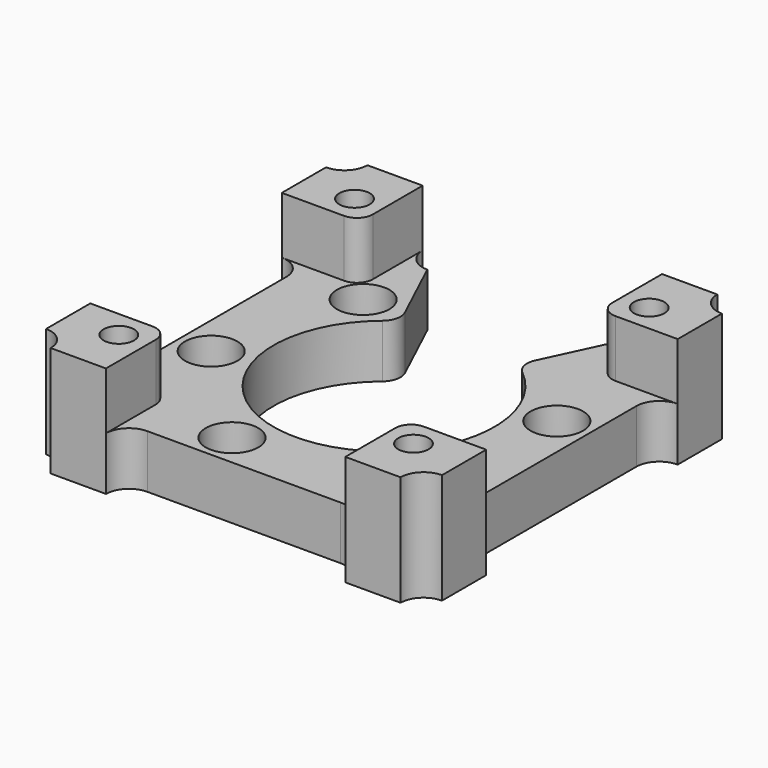
from build123d import *

# Parameters (mm, degrees)
SKETCH_R     = 1.5
SKETCH_R_2   = 1.65
PAD_DEPTH    = 5.8
SKETCH001_R  = 1.65
PAD001_DEPTH = 6.2
SKETCH002_R  = 2.85
POCKET_DEPTH = 3


with BuildPart() as part:
    # Sketch → Pad (new body)
    with BuildSketch(Plane.XY):
        with BuildLine():
            ThreePointArc((-21.5, 19), (-19.732233, 19.732233), (-19, 21.5))
            Line((-19, 21.5), (-13, 21.5))
            ThreePointArc((-13, 21.5), (-12.267767, 19.732233), (-10.500001, 19))
            Line((-10.500001, 19), (-7.065457, 11.675563))
            ThreePointArc((-7.608223, 9.279814), (-6.925691, 10.384542), (-7.065457, 11.675563))
            ThreePointArc((-7.608223, 9.279814), (0, -12), (7.608223, 9.279814))
            ThreePointArc((7.065457, 11.675563), (6.925691, 10.384541), (7.608223, 9.279814))
            Line((10.500001, 19), (7.065457, 11.675563))
            ThreePointArc((10.500001, 19), (12.267767, 19.732233), (13, 21.5))
            Line((19, 21.5), (13, 21.5))
            ThreePointArc((19, 21.5), (19.732233, 19.732233), (21.5, 19))
            Line((21.5, 19), (21.5, 13))
            ThreePointArc((21.5, 13), (19.732233, 12.267767), (19, 10.500001))
            Line((19, 10.500001), (19, -10.500001))
            ThreePointArc((19, -10.500001), (19.732233, -12.267767), (21.5, -13))
            Line((21.5, -19), (21.5, -13))
            ThreePointArc((21.5, -19), (19.732233, -19.732233), (19, -21.5))
            Line((19, -21.5), (13, -21.5))
            ThreePointArc((13, -21.5), (12.267767, -19.732233), (10.500001, -19))
            Line((10.500001, -19), (-10.500001, -19))
            ThreePointArc((-10.500001, -19), (-12.267767, -19.732233), (-13, -21.5))
            Line((-19, -21.5), (-13, -21.5))
            ThreePointArc((-19, -21.5), (-19.732233, -19.732233), (-21.5, -19))
            Line((-21.5, -19), (-21.5, -13))
            ThreePointArc((-21.5, -13), (-19.732233, -12.267767), (-19, -10.500001))
            Line((-19, 10.500001), (-19, -10.500001))
            ThreePointArc((-19, 10.500001), (-19.732233, 12.267767), (-21.5, 13))
            Line((-21.5, 19), (-21.5, 13))
        make_face()
        with Locations((-11.313708, 11.313708)):
            Circle(SKETCH_R, mode=Mode.SUBTRACT)
        with Locations((-15.454813, -4.141105)):
            Circle(SKETCH_R, mode=Mode.SUBTRACT)
        with Locations((-4.141105, -15.454813)):
            Circle(SKETCH_R, mode=Mode.SUBTRACT)
        with Locations((11.313708, -11.313708)):
            Circle(SKETCH_R, mode=Mode.SUBTRACT)
        with Locations((15.454813, 4.141105)):
            Circle(SKETCH_R, mode=Mode.SUBTRACT)
        with Locations((-16, 16)):
            Circle(SKETCH_R_2, mode=Mode.SUBTRACT)
        with Locations((16, 16)):
            Circle(SKETCH_R_2, mode=Mode.SUBTRACT)
        with Locations((16, -16)):
            Circle(SKETCH_R_2, mode=Mode.SUBTRACT)
        with Locations((-16, -16)):
            Circle(SKETCH_R_2, mode=Mode.SUBTRACT)
    extrude(amount=PAD_DEPTH)

    # Sketch001 (on Face39 of Pad) → Pad001 (join)
    with BuildSketch(Plane.XY.offset(5.8)):
        with BuildLine():
            ThreePointArc((-21.5, 19), (-19.732233, 19.732233), (-19, 21.5))
            Line((-19, 21.5), (-13, 21.5))
            Line((-13, 21.5), (-13, 14.726703))
            ThreePointArc((-14.726703, 13), (-13.50574, 13.50574), (-13, 14.726703))
            Line((-21.5, 13), (-14.726703, 13))
            Line((-21.5, 19), (-21.5, 13))
        make_face()
        with Locations((-16, 16)):
            Circle(SKETCH001_R, mode=Mode.SUBTRACT)
        with BuildLine():
            ThreePointArc((-19, -21.5), (-19.732233, -19.732233), (-21.5, -19))
            Line((-21.5, -19), (-21.5, -13))
            Line((-21.5, -13), (-14.726703, -13))
            ThreePointArc((-13, -14.726703), (-13.50574, -13.50574), (-14.726703, -13))
            Line((-13, -21.5), (-13, -14.726703))
            Line((-19, -21.5), (-13, -21.5))
        make_face()
        with Locations((-16, -16)):
            Circle(SKETCH001_R, mode=Mode.SUBTRACT)
        with BuildLine():
            ThreePointArc((21.5, -19), (19.732233, -19.732233), (19, -21.5))
            Line((19, -21.5), (13, -21.5))
            Line((13, -21.5), (13, -14.726703))
            ThreePointArc((14.726703, -13), (13.50574, -13.50574), (13, -14.726703))
            Line((21.5, -13), (14.726703, -13))
            Line((21.5, -19), (21.5, -13))
        make_face()
        with Locations((16, -16)):
            Circle(SKETCH001_R, mode=Mode.SUBTRACT)
        with BuildLine():
            ThreePointArc((19, 21.5), (19.732233, 19.732233), (21.5, 19))
            Line((21.5, 19), (21.5, 13))
            Line((21.5, 13), (14.726703, 13))
            ThreePointArc((13, 14.726703), (13.50574, 13.50574), (14.726703, 13))
            Line((13, 21.5), (13, 14.726703))
            Line((19, 21.5), (13, 21.5))
        make_face()
        with Locations((16, 16)):
            Circle(SKETCH001_R, mode=Mode.SUBTRACT)
    extrude(amount=PAD001_DEPTH)

    # Sketch002 (on Face4 of Pad001) → Pocket (cut)
    with BuildSketch(Plane.XY.offset(5.8)):
        with Locations((-11.313708, 11.313708)):
            Circle(SKETCH002_R)
        with Locations((15.454813, 4.141105)):
            Circle(SKETCH002_R)
        with Locations((11.313708, -11.313708)):
            Circle(SKETCH002_R)
        with Locations((-4.141105, -15.454813)):
            Circle(SKETCH002_R)
        with Locations((-15.454813, -4.141105)):
            Circle(SKETCH002_R)
    extrude(amount=-POCKET_DEPTH, mode=Mode.SUBTRACT)


solid = part.part
